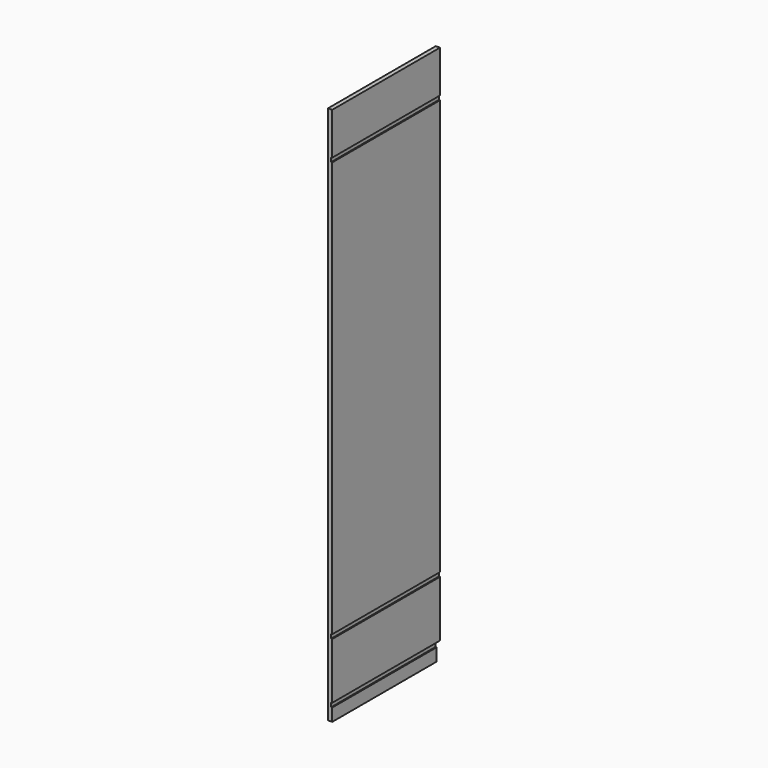
from build123d import *

# Parameters (mm, degrees)
F0_W     = 19.05
F0_H     = 2438.4
F1_DEPTH = 609.6
F2_W     = 19.05
F2_H     = 76.2
F3_DEPTH = 19.051
F4_W     = 4.7625
F4_H     = 19.05
F5_DEPTH = 609.601


with BuildPart() as f1:
    # F0 (on Front) → F1 (new body)
    with BuildSketch(Plane.XZ):
        with Locations((9.525, 1219.2)):
            Rectangle(F0_W, F0_H)
    extrude(amount=-F1_DEPTH)

    # F2 (on face) → F3 (cut, through all)
    with BuildSketch(Plane(origin=(0, 0, 0), x_dir=(0, -1, 0), z_dir=(-1, 0, 0))):
        with Locations((-600.075, 38.1)):
            Rectangle(F2_W, F2_H)
    extrude(amount=-F3_DEPTH, mode=Mode.SUBTRACT)

    # F4 (on face) → F5 (cut, through all)
    with BuildSketch(Plane.XZ):
        with Locations((16.66875, 66.675)):
            Rectangle(F4_W, F4_H)
        with Locations((16.66875, 339.725)):
            Rectangle(F4_W, F4_H)
        with Locations((16.66875, 2238.375)):
            Rectangle(F4_W, F4_H)
    extrude(amount=-F5_DEPTH, mode=Mode.SUBTRACT)


solid = f1.part
